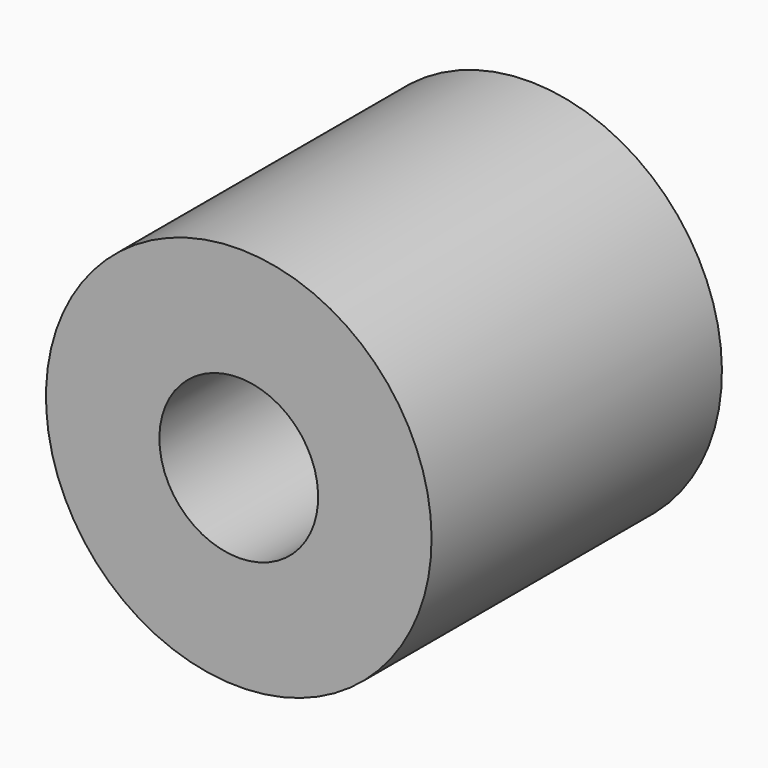
from build123d import *

# Parameters (mm, degrees)
CYLINDER_R           = 1.75
CYLINDER_DEPTH       = 10
CYLINDER001_R        = 4.25
CYLINDER001_DEPTH    = 8
CLONE001_ROLL_ANGLE  = 90
CLONE001_PITCH_ANGLE = -45


with BuildPart() as spacer_hole_cylinder:
    # Cylinder → Cylinder (new body)
    with BuildSketch(Plane.XY.offset(-1)):
        Circle(CYLINDER_R)
    extrude(amount=CYLINDER_DEPTH)


with BuildPart() as x_motor_spacer_top:
    # Cylinder001 → Cylinder001 (new body)
    with BuildSketch(Plane.XY):
        Circle(CYLINDER001_R)
    extrude(amount=CYLINDER001_DEPTH)

    # Cut002: cut spacer-hole-cylinder
    add(spacer_hole_cylinder.part, mode=Mode.SUBTRACT)


with BuildPart() as x_motor_spacer_top_1:
    # Clone001 roll: moved
    add(x_motor_spacer_top.part.rotate(Axis((0, 0, 0), (1, 0, 0)), CLONE001_ROLL_ANGLE))


with BuildPart() as x_motor_spacer_top_2:
    # Clone001 pitch: moved
    add(x_motor_spacer_top_1.part.rotate(Axis((0, 0, 0), (0, 1, 0)), CLONE001_PITCH_ANGLE))


with BuildPart() as x_motor_spacer_top_3:
    # Clone001 placement: moved
    add(x_motor_spacer_top_2.part.moved(Location((-49.5, 1, 41.384776))))


solid = x_motor_spacer_top_3.part
